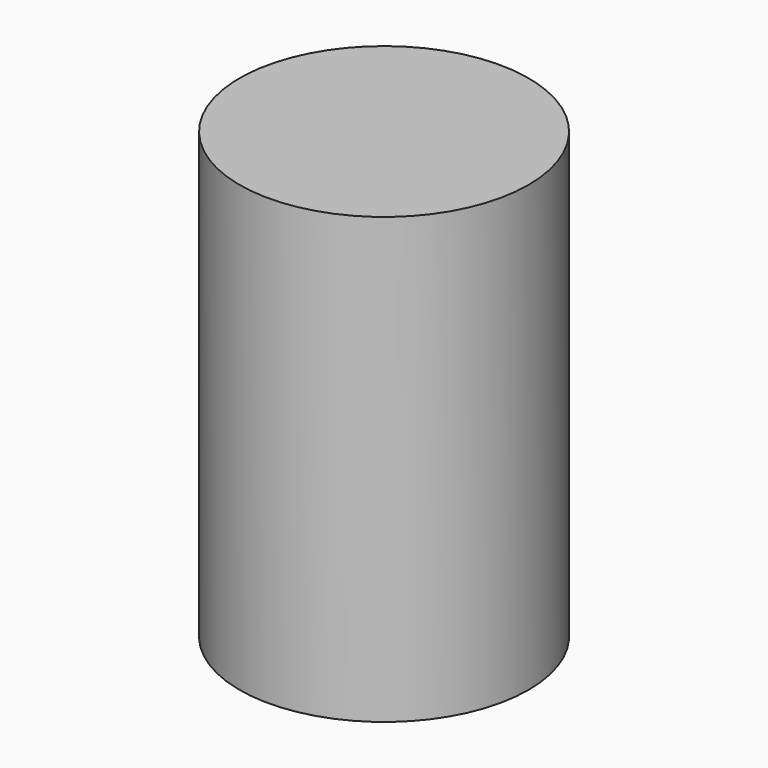
from build123d import *

# Parameters (mm, degrees)
SKETCH_R         = 3.25
EXTRUDE023_DEPTH = 10
EXTRUDE022_DEPTH = 10


with BuildPart() as extrude023:
    # Sketch → Extrude023 (new body)
    with BuildSketch(Plane.XY):
        with Locations((6.505444, 43.780474)):
            Circle(SKETCH_R)
    extrude(amount=EXTRUDE023_DEPTH)


with BuildPart() as led_base:
    # Sketch → Extrude022 (new body)
    with BuildSketch(Plane.XY):
        with Locations((6.505444, 43.780474)):
            Circle(SKETCH_R)
    extrude(amount=EXTRUDE022_DEPTH)

    # Fusion010: union Extrude023
    add(extrude023.part)


solid = led_base.part
